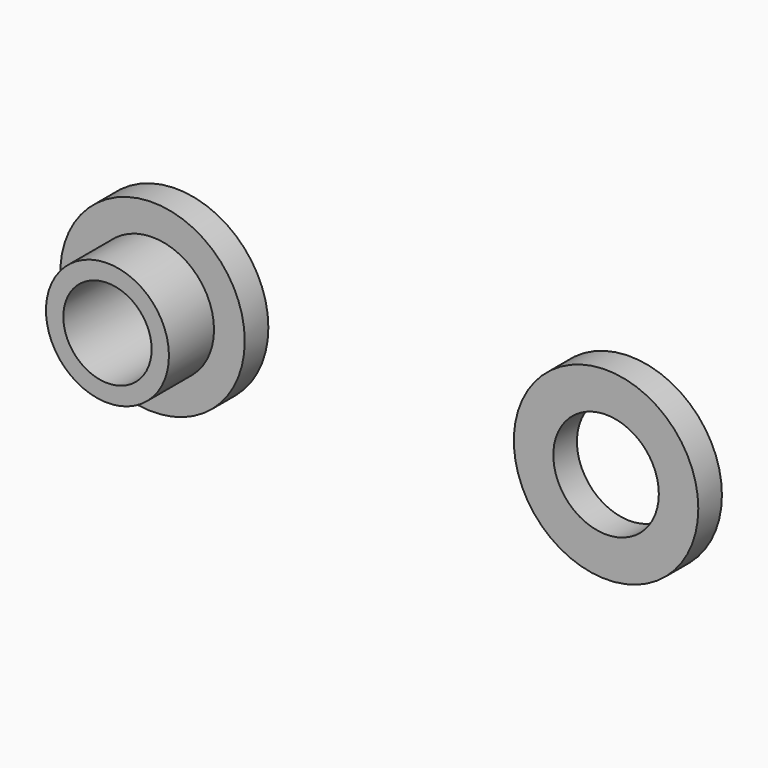
from build123d import *

# Parameters (mm, degrees)
F0_R     = 9.525
F0_R_2   = 6.35
F0_R_3   = 5.4483
F1_DEPTH = 3.048
F0_R_4   = 4.5593
F2_DEPTH = 8.8646


with BuildPart() as f1:
    # F0 (on Front) → F1 (new body)
    with BuildSketch(Plane.XZ):
        Circle(F0_R)
        Circle(F0_R_2, mode=Mode.SUBTRACT)
        with Locations((46.838772, 0)):
            Circle(F0_R)
        with Locations((46.838772, 0)):
            Circle(F0_R_3, mode=Mode.SUBTRACT)
    extrude(amount=F1_DEPTH)

    # F0 (on Front) → F2 (join)
    with BuildSketch(Plane.XZ):
        Circle(F0_R_2)
        Circle(F0_R_4, mode=Mode.SUBTRACT)
    extrude(amount=F2_DEPTH)


solid = f1.part
